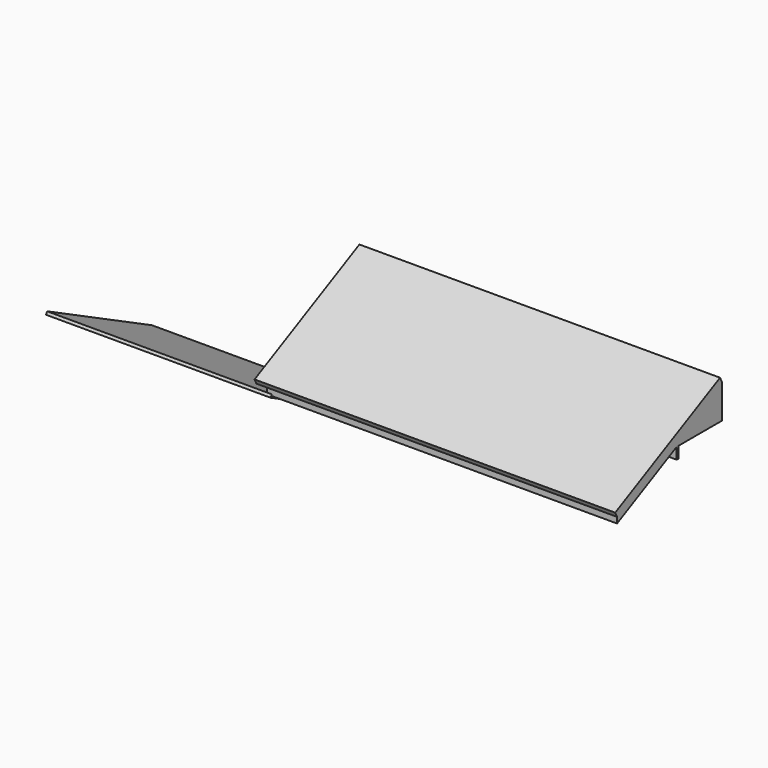
from build123d import *

# Parameters (mm, degrees)
F1_DEPTH      = 6400.8
F3_DEPTH      = 139.7
F5_DEPTH      = 10058.4
F5_DEPTH_BACK = 444.5
F8_DEPTH      = 10058.4
F7_W          = 368.3
F7_H          = 546.1
F9_DEPTH      = 6540.501
F11_DEPTH     = 10058.4


with BuildPart() as f1:
    # F0 (on Right) → F1 (new body)
    with BuildSketch(Plane.YZ):
        Polygon((-1181.128004, 947.121533), (-1218.540741, 872.312214), (2597.994124, -1036.367294), (2635.406861, -961.557975), align=None)
    extrude(amount=F1_DEPTH)

    # F2 (on face) → F3 (join)
    with BuildSketch(Plane.YZ.offset(6400.8)):
        Polygon((-1181.128004, 1074.121533), (-1181.128004, 947.121533), (-1218.540741, 872.312214), (2597.994124, -1036.367294), (2635.406861, -961.557975), (2635.406861, 2982.801042), align=None)
    extrude(amount=F3_DEPTH)

    # F4 (on face) → F5 (join, two sides)
    with BuildSketch(Plane.YZ.offset(6540.5)) as f5_sk:
        Polygon((-1249.295129, 1210.42635), (-1181.128004, 1074.121533), (2635.406861, 2982.801042), (2567.239736, 3119.105858), align=None)
    extrude(amount=F5_DEPTH)
    extrude(f5_sk.sketch, amount=-F5_DEPTH_BACK)

    # F6 (on face) → F8 (join)
    with BuildSketch(Plane.YZ.offset(6540.5)):
        Polygon((2635.406861, 2982.801042), (-1181.128004, 1074.121533), (-1181.128004, 903.725794), (2635.406861, 2812.405302), align=None)
    extrude(amount=F8_DEPTH)

    # F7 (on face) → F9 (cut, through all)
    with BuildSketch(Plane.YZ.offset(6540.5)):
        with Locations((374.621996, 1157.873887)):
            Rectangle(F7_W, F7_H)
    extrude(amount=-F9_DEPTH, mode=Mode.SUBTRACT)

    # F10 (on face) → F11 (join)
    with BuildSketch(Plane.YZ.offset(6540.5)):
        Polygon((987.396996, 1988.222432), (987.396996, 1658.022432), (1063.596996, 1658.022432), (1063.596996, 1988.222432), (2635.406861, 1988.222432), (2635.406861, 2812.405302), align=None)
    extrude(amount=F11_DEPTH)


solid = f1.part
